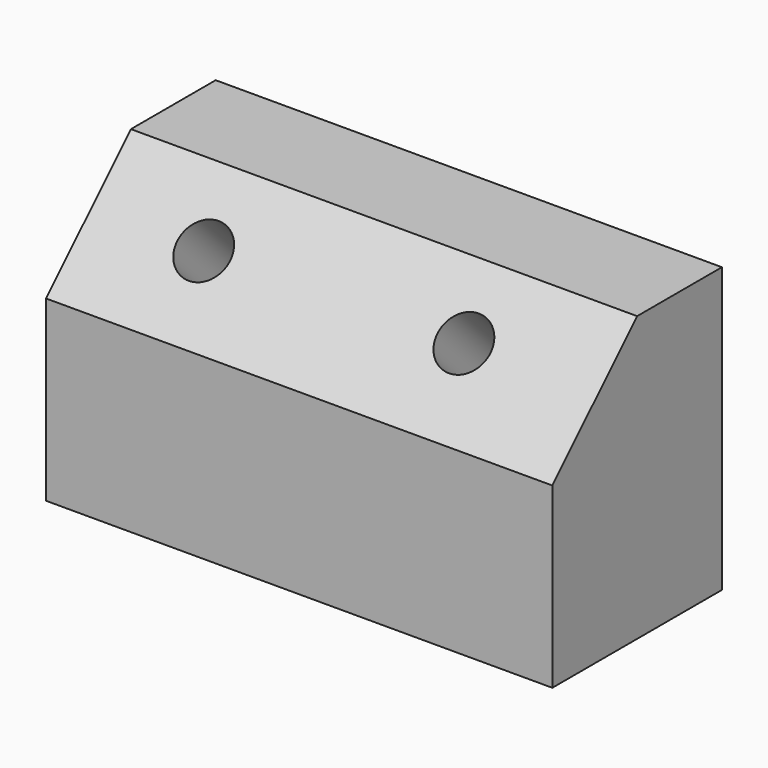
from build123d import *

# Parameters (mm, degrees)
F0_W     = 60.654063
F0_H     = 34.040548
F1_DEPTH = 25.4
F2_SIZE  = 12.7
F4_D     = 6.35


with BuildPart() as f1:
    # F0 (on Front) → F1 (new body)
    with BuildSketch(Plane.XZ):
        with Locations((3.558782, 2.011489)):
            Rectangle(F0_W, F0_H)
    extrude(amount=F1_DEPTH)

    # F2
    f2_edges = [f1.edges().sort_by_distance(p)[0] for p in [
        (3.558783, -25.4, 19.031763),
    ]]
    chamfer(f2_edges, length=F2_SIZE)

    # F4 (through all)
    with Locations(Plane(origin=(0, -15.865882, 15.865882), x_dir=(1, 0, 0), z_dir=(0, -0.707107, 0.707107))):
        with Locations((-13.242152, -4.013676), (17.749857, -3.687446)):
            Hole(F4_D / 2)


solid = f1.part
